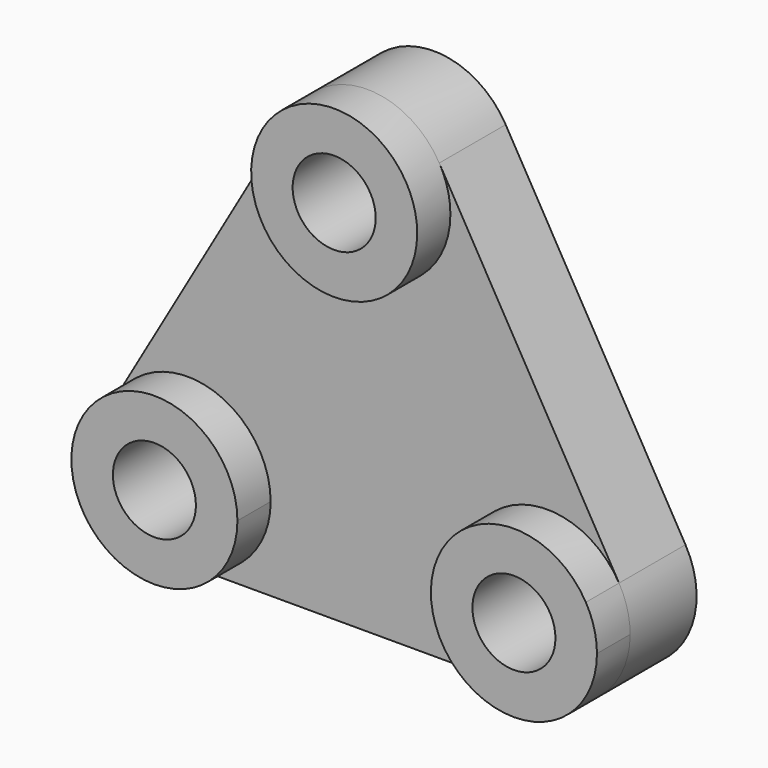
from build123d import *

# Parameters (mm, degrees)
F1_DEPTH  = 10
F0_R      = 5
F2_DEPTH  = 5
F2_FACE_R = 5
F3_DEPTH  = 10


with BuildPart() as f1:
    # F0 (on Front) → F1 (new body)
    with BuildSketch(Plane.XZ):
        with BuildLine():
            ThreePointArc((8.6602540378, 30), (9.6592582629, 27.588190451), (10, 25))
            ThreePointArc((10, 25), (-2.588190451, 15.3407417371), (-8.6602540378, 30))
            Line((-8.6602540378, 30), (-30.3108891325, -7.5))
            ThreePointArc((-30.3108891325, -7.5), (-19.0624446436, -2.8407417371), (-11.6506350946, -12.5))
            ThreePointArc((-11.6506350946, -12.5), (-14.5795672827, -19.5710678119), (-21.6506350946, -22.5))
            Line((-21.6506350946, -22.5), (21.6506350946, -22.5))
            ThreePointArc((21.6506350946, -22.5), (12.9903810568, -7.5), (30.3108891325, -7.5))
            Line((30.3108891325, -7.5), (8.6602540378, 30))
        make_face()
    extrude(amount=-F1_DEPTH)

    # F0 (on Front) → F2 (join)
    with BuildSketch(Plane.XZ):
        with BuildLine():
            ThreePointArc((-8.6602540378, 30), (-2.588190451, 15.3407417371), (10, 25))
            ThreePointArc((10, 25), (9.6592582629, 27.588190451), (8.6602540378, 30))
            ThreePointArc((8.6602540378, 30), (0, 35), (-8.6602540378, 30))
        make_face()
        with Locations((0, 25)):
            Circle(F0_R, mode=Mode.SUBTRACT)
        with BuildLine():
            ThreePointArc((-11.6506350946, -12.5), (-19.0624446436, -2.8407417371), (-30.3108891325, -7.5))
            ThreePointArc((-30.3108891325, -7.5), (-30.3108891325, -17.5), (-21.6506350946, -22.5))
            ThreePointArc((-21.6506350946, -22.5), (-14.5795672827, -19.5710678119), (-11.6506350946, -12.5))
        make_face()
        with Locations((-21.6506350946, -12.5)):
            Circle(F0_R, mode=Mode.SUBTRACT)
        with BuildLine():
            ThreePointArc((31.6506350946, -12.5), (31.3098933575, -9.911809549), (30.3108891325, -7.5))
            ThreePointArc((30.3108891325, -7.5), (12.9903810568, -7.5), (21.6506350946, -22.5))
            ThreePointArc((21.6506350946, -22.5), (28.7217029065, -19.5710678119), (31.6506350946, -12.5))
        make_face()
        with Locations((21.6506350946, -12.5)):
            Circle(F0_R, mode=Mode.SUBTRACT)
    extrude(amount=F2_DEPTH)

    # F2_face (on face) → F3 (join)
    with BuildSketch(Plane(origin=(0, 0, 25), x_dir=(1, 0, 0), z_dir=(0, 1, 0))):
        with BuildLine():
            ThreePointArc((8.6602540378, -5), (9.6592582629, -2.588190451), (10, 0))
            ThreePointArc((10, 0), (-2.588190451, 9.6592582629), (-8.6602540378, -5))
            ThreePointArc((-8.6602540378, -5), (0, -10), (8.6602540378, -5))
        make_face()
        Circle(F2_FACE_R, mode=Mode.SUBTRACT)
        with BuildLine():
            ThreePointArc((21.6506350946, 47.5), (12.9903810568, 32.5), (30.3108891325, 32.5))
            ThreePointArc((30.3108891325, 32.5), (30.3108891325, 42.5), (21.6506350946, 47.5))
        make_face()
        with Locations((21.6506350946, 37.5)):
            Circle(F2_FACE_R, mode=Mode.SUBTRACT)
        with BuildLine():
            ThreePointArc((-21.6506350946, 47.5), (-30.3108891325, 42.5), (-30.3108891325, 32.5))
            ThreePointArc((-30.3108891325, 32.5), (-12.9903810568, 32.5), (-21.6506350946, 47.5))
        make_face()
        with Locations((-21.6506350946, 37.5)):
            Circle(F2_FACE_R, mode=Mode.SUBTRACT)
    extrude(amount=F3_DEPTH)


solid = f1.part
